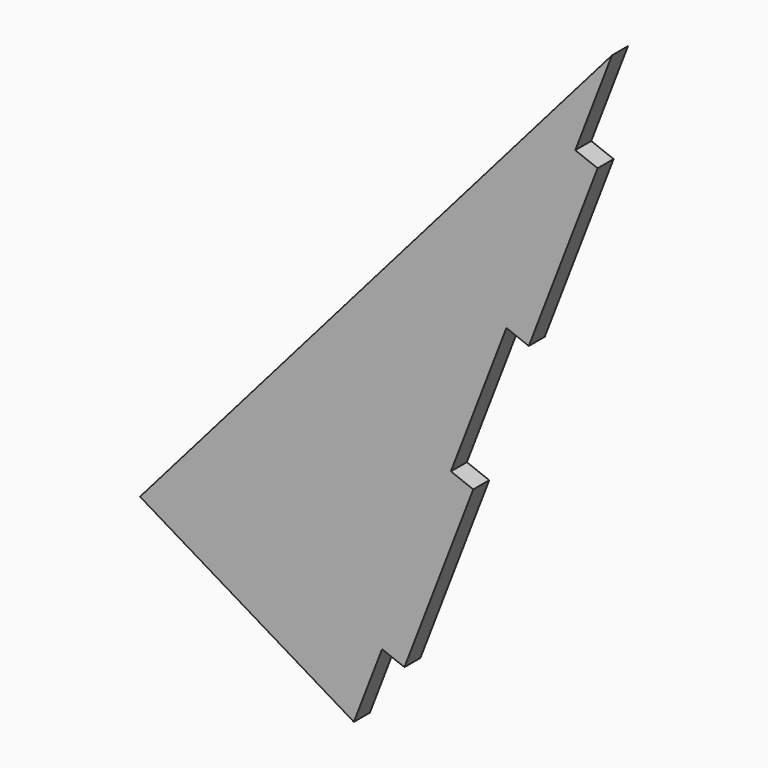
from build123d import *

# Parameters (mm, degrees)
F1_DEPTH = 12.7
F2_W     = 12.7
F2_H     = 121.92
F3_DEPTH = 15.24


with BuildPart() as f1:
    # F0 (on Front) → F1 (new body)
    with BuildSketch(Plane.XZ):
        Polygon((-21.9617754193, -215.8832436931), (142.2327753232, 210.8157011221), (-157.9992666454, -133.9923048397), align=None)
    extrude(amount=F1_DEPTH)

    # F2 (on face) → F3 (join)
    with BuildSketch(Plane(origin=(53.2287822362, 0, -20.4825347989), x_dir=(0, 1, 0), z_dir=(0.9332872809, 0, -0.3591306884))):
        with Locations((-6.35, 121.7824127824)):
            Rectangle(F2_W, F2_H)
        with Locations((-6.35, -98.5015256176)):
            Rectangle(F2_W, F2_H)
    extrude(amount=F3_DEPTH)


solid = f1.part
